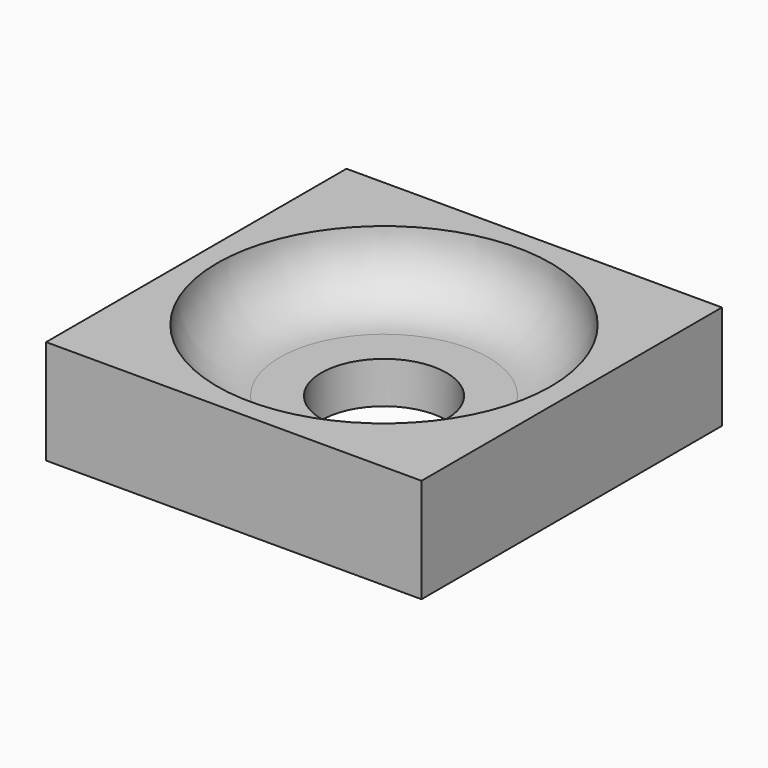
from build123d import *

# Parameters (mm, degrees)
F0_W     = 22.86
F0_H     = 22.86
F1_DEPTH = 3.81
F4_W     = 22.86
F4_H     = 22.86
F4_R     = 3.81
F5_DEPTH = 2.54


with BuildPart() as f1:
    # F0 (on Top) → F1 (new body)
    with BuildSketch(Plane.XY):
        Rectangle(F0_W, F0_H)
    extrude(amount=F1_DEPTH)

    # F2 (on Front) → F3 (revolve, cut)
    with BuildSketch(Plane.XZ):
        with BuildLine():
            Line((0, 3.81), (0, 0))
            Line((0, 0), (6.35, 0))
            ThreePointArc((6.35, 0), (9.044077, 1.115923), (10.16, 3.81))
            Line((10.16, 3.81), (0, 3.81))
        make_face()
    revolve(axis=Axis((0, 0, 1.905), (0, 0, 1)), mode=Mode.SUBTRACT)

    # F4 (on face) → F5 (join)
    with BuildSketch(Plane(origin=(0, 0, 0), x_dir=(1, 0, 0), z_dir=(0, 0, -1))):
        Rectangle(F4_W, F4_H)
        Circle(F4_R, mode=Mode.SUBTRACT)
    extrude(amount=F5_DEPTH)


solid = f1.part
